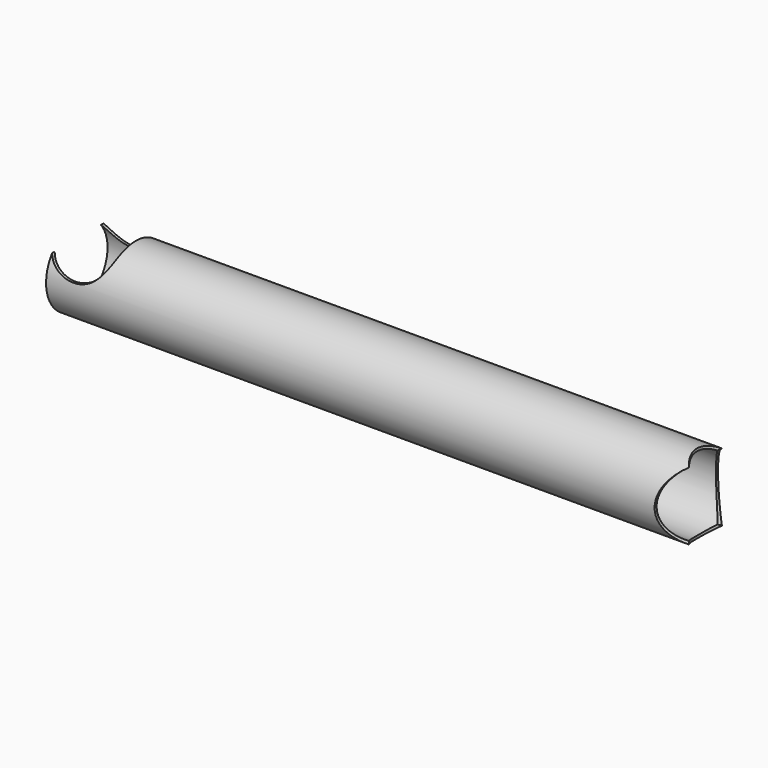
from build123d import *

# Parameters (mm, degrees)
SKETCH002_R          = 25.4
PAD_DEPTH            = 397.787357
PAD_DEPTH_BACK       = 17
SKETCH011_R          = 23.749191
POCKET002_DEPTH      = 414.788357
SKETCH010_R          = 20
POCKET003_DEPTH      = 25.401
POCKET003_DEPTH_BACK = 25.401
SKETCH019_R          = 25.4
POCKET008_DEPTH      = 25.401
POCKET008_DEPTH_BACK = 25.401
SKETCH020_R          = 18.5
POCKET009_DEPTH      = 50.801


with BuildPart() as part:
    # Sketch002 → Pad (new body, two sides)
    with BuildSketch(Plane.YZ) as pad_sk:
        with Locations((0, -25.4)):
            Circle(SKETCH002_R)
    extrude(amount=PAD_DEPTH)
    extrude(pad_sk.sketch, amount=-PAD_DEPTH_BACK)

    # Sketch011 (on Face3 of Pad) → Pocket002 (cut, through all)
    with BuildSketch(Plane.YZ.offset(397.787357)):
        with Locations((0, -25.4)):
            Circle(SKETCH011_R)
    extrude(amount=-POCKET002_DEPTH, mode=Mode.SUBTRACT)

    # Sketch010 → Pocket003 (cut, two sides)
    with BuildSketch(Plane.XZ) as pocket003_sk:
        Circle(SKETCH010_R)
    extrude(amount=-POCKET003_DEPTH, mode=Mode.SUBTRACT)
    extrude(pocket003_sk.sketch, amount=POCKET003_DEPTH_BACK, mode=Mode.SUBTRACT)

    # Sketch019 → Pocket008 (cut, two sides)
    with BuildSketch(Plane.XZ) as pocket008_sk:
        with Locations((397.787357, -25.4)):
            Circle(SKETCH019_R)
    extrude(amount=-POCKET008_DEPTH, mode=Mode.SUBTRACT)
    extrude(pocket008_sk.sketch, amount=POCKET008_DEPTH_BACK, mode=Mode.SUBTRACT)

    # Sketch020 → Pocket009 (cut, through all)
    with BuildSketch(Plane.XY):
        with Locations((397.787357, 0)):
            Circle(SKETCH020_R)
    extrude(amount=-POCKET009_DEPTH, mode=Mode.SUBTRACT)


solid = part.part
